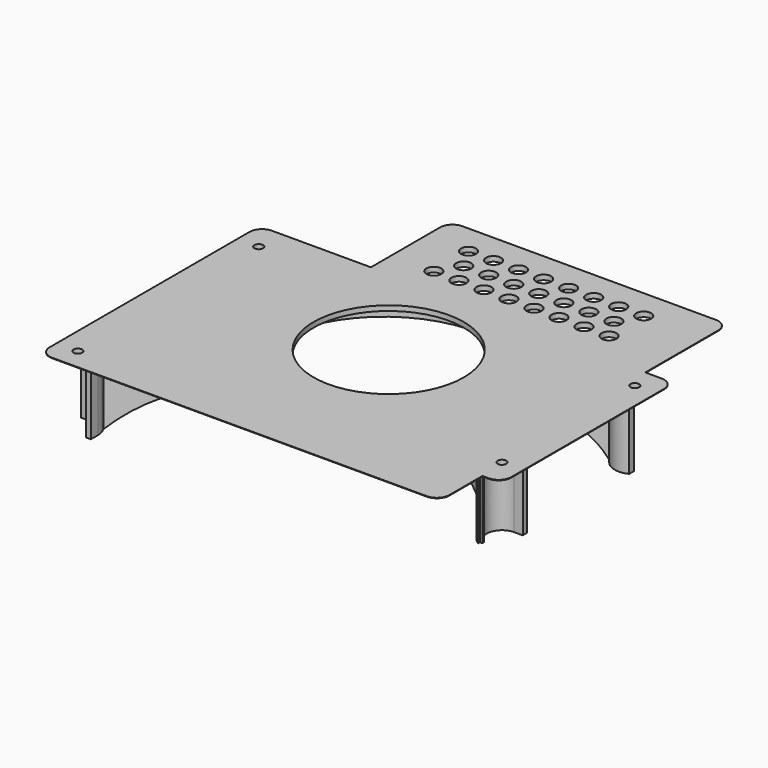
from build123d import *

# Parameters (mm, degrees)
F0_R      = 1.75
F1_DEPTH  = 2
F2_R      = 45.5
F3_DEPTH  = 25
F4_R      = 47.5
F4_R_2    = 45.5
F5_DEPTH  = 15
F7_DEPTH  = 2
F9_DEPTH  = 2
F11_DEPTH = 2
F13_DEPTH = 2
F14_R     = 3
F14_R_2   = 30
F15_DEPTH = 2
F17_DEPTH = 0.2


with BuildPart() as f1:
    # F0 (on Top) → F1 (new body)
    with BuildSketch(Plane.XY):
        Polygon((146.24, 139.84), (45, 139.84), (45, 100.34), (0.5, 100.34), (0.5, 0.5), (150.24, 0.5), (150.24, 22), (157.74, 22), (157.74, 98.34), (146.24, 98.34), align=None)
        with Locations((4, 4)):
            Circle(F0_R, mode=Mode.SUBTRACT)
        with Locations((154.24, 28)):
            Circle(F0_R, mode=Mode.SUBTRACT)
        with Locations((4, 94.34)):
            Circle(F0_R, mode=Mode.SUBTRACT)
        with Locations((154.24, 94.34)):
            Circle(F0_R, mode=Mode.SUBTRACT)
    extrude(amount=F1_DEPTH)

    # F2 (on face) → F3 (join)
    with BuildSketch(Plane(origin=(0, 0, 0), x_dir=(1, 0, 0), z_dir=(0, 0, -1))):
        with BuildLine():
            ThreePointArc((10, -4), (8.2426406871, -8.2426406871), (4, -10))
            Line((4, -10), (0.5, -10))
            Line((0.5, -10), (0.5, -12))
            Line((0.5, -12), (4, -12))
            ThreePointArc((4, -12), (6.9758574337, -11.425918969), (9.5246190414, -9.7860681336))
            Line((9.5246190414, -9.7860681336), (40.6574060377, -35.1261909979))
            ThreePointArc((40.6574060377, -35.1261909979), (31.1479229304, -57.2668490696), (33.7265596111, -81.2249299962))
            Line((33.7265596111, -81.2249299962), (10.9817646219, -90.4342397968))
            ThreePointArc((10.9817646219, -90.4342397968), (8.0468455848, -87.4390550783), (4, -86.34))
            Line((4, -86.34), (0.5, -86.34))
            Line((0.5, -86.34), (0.5, -88.34))
            Line((0.5, -88.34), (4, -88.34))
            ThreePointArc((4, -88.34), (8.2426406871, -90.0973593129), (10, -94.34))
            Line((10, -94.34), (10, -100.34))
            Line((10, -100.34), (12, -100.34))
            Line((12, -100.34), (12, -94.34))
            ThreePointArc((12, -94.34), (11.9328093527, -93.3053330133), (11.7323660567, -92.2880460127))
            Line((11.7323660567, -92.2880460127), (34.4771610459, -83.0787362121))
            ThreePointArc((34.4771610459, -83.0787362121), (78.3378738233, -111.8285003237), (121.9330039808, -82.677588016))
            Line((121.9330039808, -82.677588016), (146.489135626, -92.3590655095))
            ThreePointArc((146.489135626, -92.3590655095), (146.3146198339, -95.4301143162), (147.3117967697, -98.34))
            Line((147.3117967697, -98.34), (149.767864045, -98.34))
            ThreePointArc((149.767864045, -98.34), (149.7767549447, -90.3300818492), (157.74, -89.4666028276))
            Line((157.74, -89.4666028276), (157.74, -87.146252715))
            ThreePointArc((157.74, -87.146252715), (151.8105638388, -86.7178060941), (147.222699515, -90.4984516268))
            Line((147.222699515, -90.4984516268), (122.6665678698, -80.8169741333))
            ThreePointArc((122.6665678698, -80.8169741333), (125.5911225603, -62.6729435798), (121.4092872365, -44.7768233805))
            Line((121.4092872365, -44.7768233805), (147.5074621824, -32.3212191029))
            ThreePointArc((147.5074621824, -32.3212191029), (150.4039703353, -35.0203188255), (154.24, -36))
            Line((154.24, -36), (157.74, -36))
            Line((157.74, -36), (157.74, -34))
            Line((157.74, -34), (154.24, -34))
            ThreePointArc((154.24, -34), (148.4553564106, -29.5930783231), (151.1682032303, -22.8459661812))
            Line((151.1682032303, -22.8459661812), (151.1682032303, -22))
            Line((151.1682032303, -22), (150.24, -22))
            Line((150.24, -22), (150.24, -21.0717967697))
            ThreePointArc((150.24, -21.0717967697), (146.7630692489, -25.1547396352), (146.646022323, -30.5162478099))
            Line((146.646022323, -30.5162478099), (120.547847377, -42.9718520875))
            ThreePointArc((120.547847377, -42.9718520875), (83.7566004803, -17.164620061), (41.9199333193, -33.5750543619))
            Line((41.9199333193, -33.5750543619), (10.787146323, -8.2349314977))
            ThreePointArc((10.787146323, -8.2349314977), (11.6908117447, -6.202592724), (12, -4))
            Line((12, -4), (12, -0.5))
            Line((12, -0.5), (10, -0.5))
            Line((10, -0.5), (10, -4))
        make_face()
        with Locations((78.12, -64.329)):
            Circle(F2_R, mode=Mode.SUBTRACT)
    extrude(amount=F3_DEPTH)

    # F4 (on face) → F5 (cut)
    with BuildSketch(Plane(origin=(0, 0, -25), x_dir=(1, 0, 0), z_dir=(0, 0, -1))):
        with Locations((78.12, -64.329)):
            Circle(F4_R)
        with Locations((78.12, -64.329)):
            Circle(F4_R_2, mode=Mode.SUBTRACT)
    extrude(amount=-F5_DEPTH, mode=Mode.SUBTRACT)

    # F6 (on face) → F7 (cut, through all)
    with BuildSketch(Plane(origin=(-0.9956408244, 1.223240861, 0), x_dir=(-0.775568318, -0.6312636408, 0), z_dir=(-0.6312636408, 0.775568318, 0))):
        with BuildLine():
            Line((-53.7064832295, -25), (-13.5645817682, -25))
            ThreePointArc((-13.5645817682, -25), (-32.2800261441, -13.8724931652), (-53.7064832295, -10))
            Line((-53.7064832295, -10), (-53.7064832295, -25))
        make_face()
    extrude(amount=-F7_DEPTH, mode=Mode.SUBTRACT)

    # F8 (on face) → F9 (cut, through all)
    with BuildSketch(Plane(origin=(33.7565138758, 83.3705244234, 0), x_dir=(-0.926903108, 0.3753007174, 0), z_dir=(0.3753007174, 0.926903108, 0))):
        with BuildLine():
            Line((-0.7774784267, -25), (23.7610033133, -25))
            ThreePointArc((23.7610033133, -25), (13.6025171062, -14.0470190165), (-0.7774784267, -10))
            Line((-0.7774784267, -10), (-0.7774784267, -25))
        make_face()
    extrude(amount=-F9_DEPTH, mode=Mode.SUBTRACT)

    # F10 (on face) → F11 (cut, through all)
    with BuildSketch(Plane(origin=(-11.8077046726, 29.9491013188, 0), x_dir=(-0.9303069414, -0.3667819445, 0), z_dir=(-0.3667819445, 0.9303069414, 0))):
        with BuildLine():
            Line((-143.7597664873, -25), (-143.7597664873, -10))
            ThreePointArc((-143.7597664873, -10), (-158.9398077244, -14.0119347282), (-170.1554973511, -25))
            Line((-170.1554973511, -25), (-143.7597664873, -25))
        make_face()
    extrude(amount=-F11_DEPTH, mode=Mode.SUBTRACT)

    # F12 (on face) → F13 (cut, through all)
    with BuildSketch(Plane(origin=(39.9293914787, 83.6638850329, 0), x_dir=(-0.9024856465, 0.4307199297, 0), z_dir=(0.4307199297, 0.9024856465, 0))):
        with BuildLine():
            Line((-90.2838688618, -25), (-90.2838688618, -10))
            ThreePointArc((-90.2838688618, -10), (-106.5723372783, -13.9731174713), (-119.2019741495, -25))
            Line((-119.2019741495, -25), (-90.2838688618, -25))
        make_face()
    extrude(amount=-F13_DEPTH, mode=Mode.SUBTRACT)

    # F14 (on face) → F15 (cut, through all)
    with BuildSketch(Plane.XY.offset(2)):
        with Locations((57, 132.84)):
            Circle(F14_R)
        with Locations((67, 132.84)):
            Circle(F14_R)
        with Locations((77, 132.84)):
            Circle(F14_R)
        with Locations((87, 132.84)):
            Circle(F14_R)
        with Locations((97, 132.84)):
            Circle(F14_R)
        with Locations((107, 132.84)):
            Circle(F14_R)
        with Locations((117, 132.84)):
            Circle(F14_R)
        with Locations((127, 132.84)):
            Circle(F14_R)
        with Locations((62, 124.1797459622)):
            Circle(F14_R)
        with Locations((72, 124.1797459622)):
            Circle(F14_R)
        with Locations((82, 124.1797459622)):
            Circle(F14_R)
        with Locations((92, 124.1797459622)):
            Circle(F14_R)
        with Locations((102, 124.1797459622)):
            Circle(F14_R)
        with Locations((112, 124.1797459622)):
            Circle(F14_R)
        with Locations((122, 124.1797459622)):
            Circle(F14_R)
        with Locations((57, 115.5194919243)):
            Circle(F14_R)
        with Locations((67, 115.5194919243)):
            Circle(F14_R)
        with Locations((77, 115.5194919243)):
            Circle(F14_R)
        with Locations((87, 115.5194919243)):
            Circle(F14_R)
        with Locations((97, 115.5194919243)):
            Circle(F14_R)
        with Locations((107, 115.5194919243)):
            Circle(F14_R)
        with Locations((117, 115.5194919243)):
            Circle(F14_R)
        with Locations((127, 115.5194919243)):
            Circle(F14_R)
        with Locations((79.12, 65.329)):
            Circle(F14_R_2)
    extrude(amount=-F15_DEPTH, mode=Mode.SUBTRACT)

    # F16 (on face) → F17 (join)
    with BuildSketch(Plane.XY.offset(2)):
        with BuildLine():
            Line((40, 139.84), (40, 105.34))
            Line((40, 105.34), (0.5, 105.34))
            ThreePointArc((0.5, 105.34), (-3.0355339059, 103.8755339059), (-4.5, 100.34))
            Line((-4.5, 100.34), (-4.5, 0.5))
            ThreePointArc((-4.5, 0.5), (-3.0355339059, -3.0355339059), (0.5, -4.5))
            Line((0.5, -4.5), (150.24, -4.5))
            ThreePointArc((150.24, -4.5), (153.7755339059, -3.0355339059), (155.24, 0.5))
            Line((155.24, 0.5), (155.24, 17))
            Line((155.24, 17), (157.74, 17))
            ThreePointArc((157.74, 17), (161.2755339059, 18.4644660941), (162.74, 22))
            Line((162.74, 22), (162.74, 98.34))
            ThreePointArc((162.74, 98.34), (161.2755339059, 101.8755339059), (157.74, 103.34))
            Line((157.74, 103.34), (151.24, 103.34))
            Line((151.24, 103.34), (151.24, 139.84))
            ThreePointArc((151.24, 139.84), (149.7755339059, 143.3755339059), (146.24, 144.84))
            Line((146.24, 144.84), (45, 144.84))
            ThreePointArc((45, 144.84), (41.4644660941, 143.3755339059), (40, 139.84))
        make_face()
        Polygon((0.5, 0.5), (0.5, 100.34), (45, 100.34), (45, 139.84), (146.24, 139.84), (146.24, 98.34), (157.74, 98.34), (157.74, 22), (150.24, 22), (150.24, 0.5), align=None, mode=Mode.SUBTRACT)
    extrude(amount=-F17_DEPTH)


solid = f1.part
